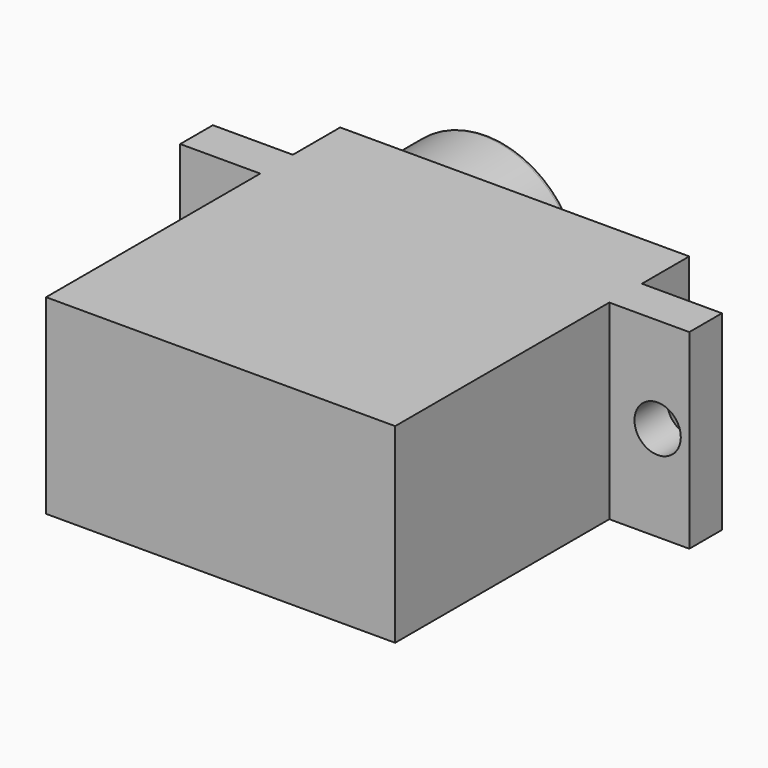
from build123d import *

# Parameters (mm, degrees)
PAD018_DEPTH            = 12.35
PAD019_DEPTH            = 4.17
SKETCH036_R             = 1.5
POCKET011_DEPTH         = 5
FILLET014_R             = 0.3
BODY008_PLACEMENT_ANGLE = 180


with BuildPart() as part:
    # Sketch034 → Pad018 (new body)
    with BuildSketch(Plane.XY):
        Polygon((0, 23.8), (22.6, 23.8), (22.6, 19.97), (27.78, 19.97), (27.78, 17.33), (22.6, 17.33), (22.6, 0), (0, 0), (0, 17.33), (-5.18, 17.33), (-5.18, 19.97), (0, 19.97), align=None)
    extrude(amount=PAD018_DEPTH)

    # Sketch035 (on Face4 of Pad018) → Pad019 (join)
    with BuildSketch(Plane(origin=(0, 23.8, 0), x_dir=(-1, 0, 0), z_dir=(0, 1, 0))):
        with BuildLine():
            ThreePointArc((-10.895586, 8.809617), (-22.55, 6.175), (-10.895586, 3.540383))
            ThreePointArc((-10.895586, 3.540383), (-7.605, 6.175), (-10.895586, 8.809617))
        make_face()
    extrude(amount=PAD019_DEPTH)

    # Sketch036 (on Face10 of Pad019) → Pocket011 (cut)
    with BuildSketch(Plane(origin=(0, 19.97, 0), x_dir=(-1, 0, 0), z_dir=(0, 1, 0))):
        with Locations((-25.73, 6.175)):
            Circle(SKETCH036_R)
        with Locations((3.13, 6.175)):
            Circle(SKETCH036_R)
    extrude(amount=-POCKET011_DEPTH, mode=Mode.SUBTRACT)

    # Fillet014
    fillet014_edges = [part.edges().sort_by_distance(p)[0] for p in [
        (22.55, 27.97, 6.175),
        (7.605, 27.97, 6.175),
    ]]
    fillet(fillet014_edges, radius=FILLET014_R)


with BuildPart() as part_1:
    # Body008 placement: moved
    add(part.part.moved(Location((215.339996, 126.400008, -13.43))).rotate(Axis((215.339996, 126.400008, -13.43), (0, 1, 0)), BODY008_PLACEMENT_ANGLE))


solid = part_1.part
